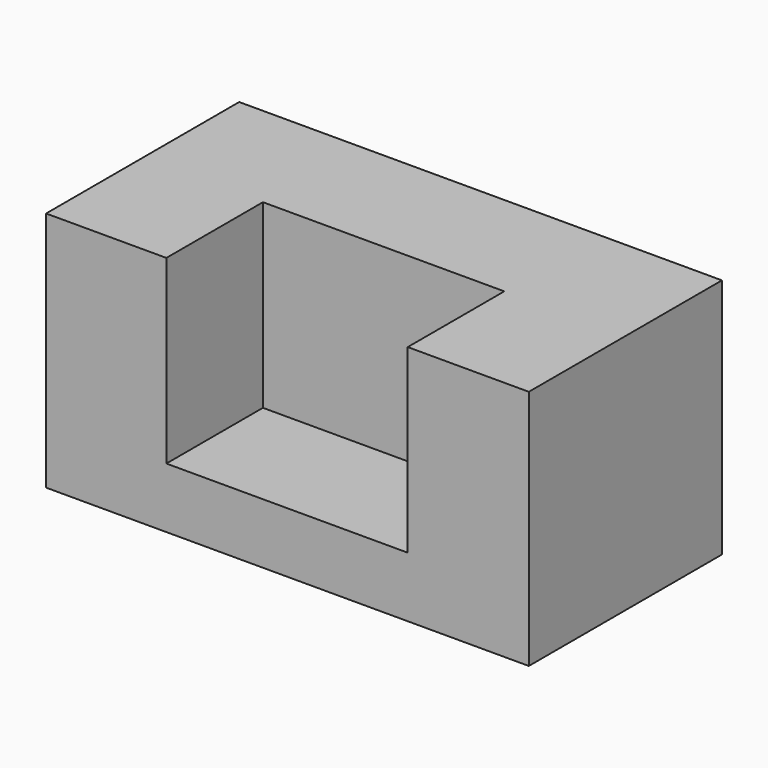
from build123d import *

# Parameters (mm, degrees)
F1_DEPTH = 101.6
F2_W     = 101.6
F2_H     = 50.8
F3_DEPTH = 76.2


with BuildPart() as f1:
    # F0 (on Top) → F1 (new body)
    with BuildSketch(Plane.XY):
        Polygon((106.017389, 50.8), (-97.182611, 50.8), (-97.182611, 0), (-97.182611, -50.8), (-46.382611, -50.8), (55.217389, -50.8), (106.017389, -50.8), (106.017389, 0), align=None)
    extrude(amount=F1_DEPTH)

    # F2 (on face) → F3 (cut)
    with BuildSketch(Plane.XY.offset(101.6)):
        with Locations((4.246239, -25.4)):
            Rectangle(F2_W, F2_H)
    extrude(amount=-F3_DEPTH, mode=Mode.SUBTRACT)


solid = f1.part
